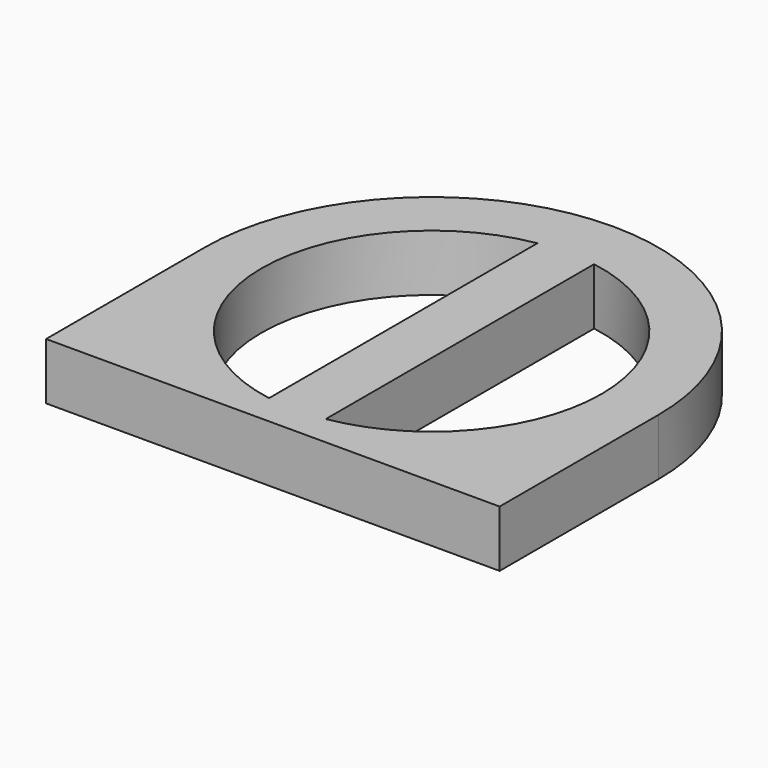
from build123d import *

# Parameters (mm, degrees)
F0_R     = 19.05
F1_DEPTH = 6.35
F3_DEPTH = 6.35


with BuildPart() as f1:
    # F0 (on Top) → F1 (new body)
    with BuildSketch(Plane.XY):
        with BuildLine():
            Line((0, 22.225), (0, 0))
            Line((0, 0), (50.8, 0))
            Line((50.8, 0), (50.8, 22.225))
            ThreePointArc((50.8, 22.225), (25.4, 47.625), (0, 22.225))
        make_face()
        with Locations((25.4, 22.225)):
            Circle(F0_R, mode=Mode.SUBTRACT)
    extrude(amount=F1_DEPTH)

    # F2 (on face) → F3 (join)
    with BuildSketch(Plane(origin=(0, 0, 0), x_dir=(1, 0, 0), z_dir=(0, 0, -1))):
        with BuildLine():
            Line((28.575, -41.0085533113), (28.575, -3.4414466887))
            ThreePointArc((28.575, -3.4414466887), (25.4, -3.175), (22.225, -3.4414466887))
            Line((22.225, -3.4414466887), (22.225, -41.0085533113))
            ThreePointArc((22.225, -41.0085533113), (25.4, -41.275), (28.575, -41.0085533113))
        make_face()
    extrude(amount=-F3_DEPTH)


solid = f1.part
